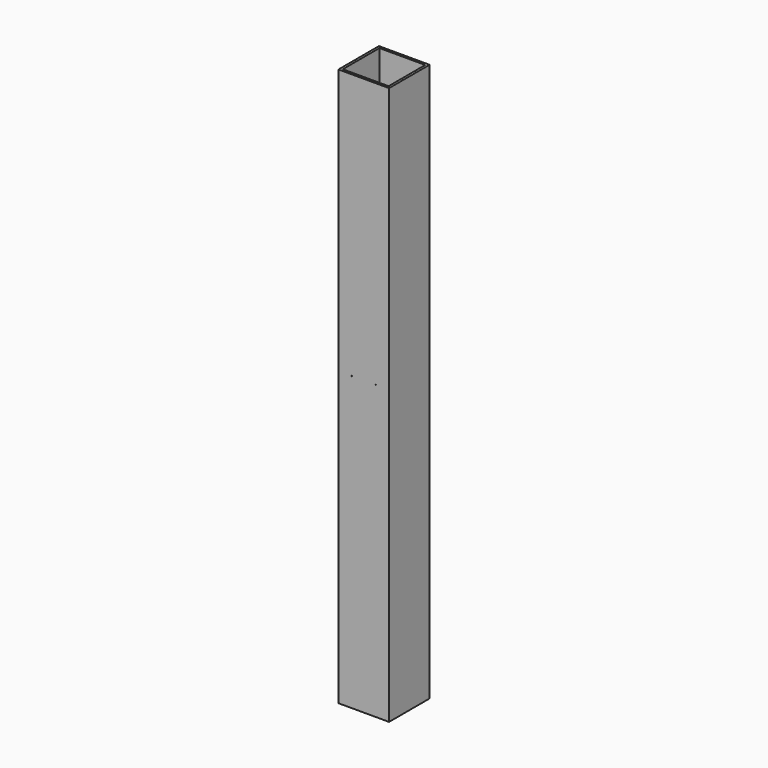
from build123d import *

# Parameters (mm, degrees)
F0_W     = 63.5
F0_H     = 63.5
F0_W_2   = 57.5
F0_H_2   = 57.5
F1_DEPTH = 700
F2_R     = 0.5
F3_DEPTH = 3


with BuildPart() as f1:
    # F0 (on Top) → F1 (new body)
    with BuildSketch(Plane.XY):
        with Locations((-3.452207, -16.794333)):
            Rectangle(F0_W, F0_H)
        with Locations((-3.452207, -16.794333)):
            Rectangle(F0_W_2, F0_H_2, mode=Mode.SUBTRACT)
    extrude(amount=F1_DEPTH)

    # F2 (on face) → F3 (cut)
    with BuildSketch(Plane.XZ.offset(48.544333)):
        with Locations((-18.452207, 367)):
            Circle(F2_R)
        with Locations((11.547793, 367)):
            Circle(F2_R)
    extrude(amount=-F3_DEPTH, mode=Mode.SUBTRACT)


solid = f1.part
